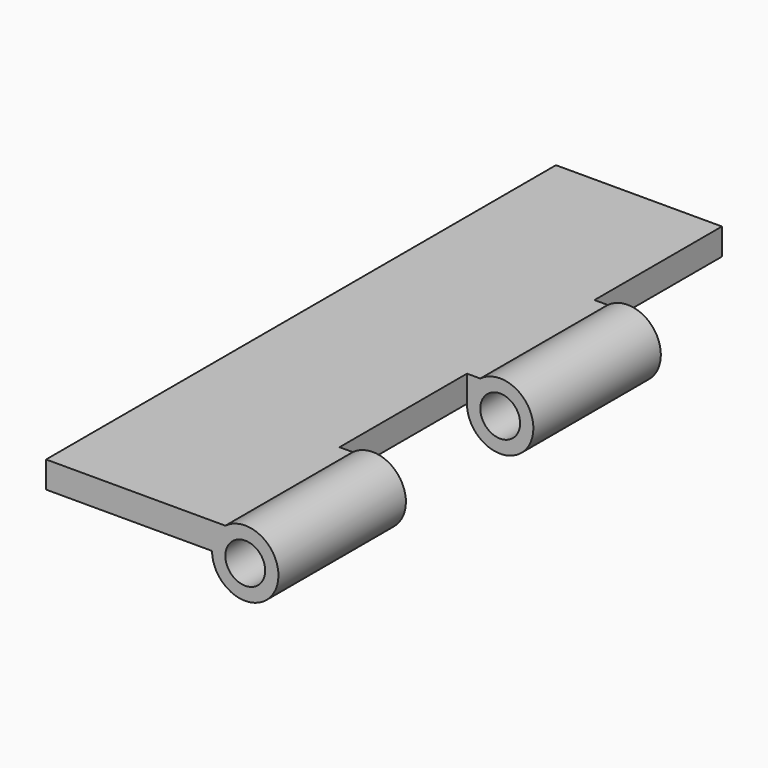
from build123d import *

# Parameters (mm, degrees)
F0_R     = 1.5
F1_DEPTH = 48
F2_W     = 5
F2_H     = 12
F3_DEPTH = 5


with BuildPart() as f1:
    # F0 (on Front) → F1 (new body)
    with BuildSketch(Plane.XZ):
        with BuildLine():
            Line((-1.5, 2), (-15, 2))
            Line((-15, 2), (-15, 0))
            Line((-15, 0), (-2.5, 0))
            ThreePointArc((-2.5, 0), (2.2360679775, -1.1180339887), (-1.5, 2))
        make_face()
        Circle(F0_R, mode=Mode.SUBTRACT)
    extrude(amount=F1_DEPTH)

    # F2 (on face) → F3 (cut, symmetric)
    with BuildSketch(Plane(origin=(0, 0, 0), x_dir=(1, 0, 0), z_dir=(0, 0, -1))):
        with Locations((0, 6)):
            Rectangle(F2_W, F2_H)
        with Locations((0, 30)):
            Rectangle(F2_W, F2_H)
    extrude(amount=F3_DEPTH, both=True, mode=Mode.SUBTRACT)


solid = f1.part
